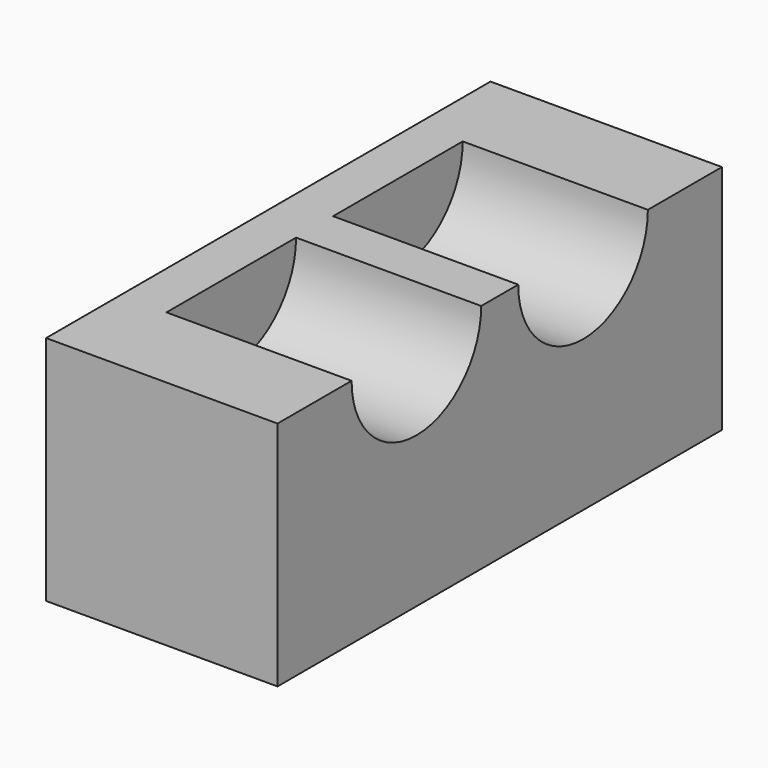
from build123d import *

# Parameters (mm, degrees)
F0_W     = 50
F0_H     = 120
F1_DEPTH = 50
F2_R     = 17.5
F3_DEPTH = 40


with BuildPart() as f1:
    # F0 (on Top) → F1 (new body)
    with BuildSketch(Plane.XY):
        Rectangle(F0_W, F0_H)
    extrude(amount=F1_DEPTH)

    # F2 (on face) → F3 (cut)
    with BuildSketch(Plane.YZ.offset(25)):
        with Locations((-22.5, 50)):
            Circle(F2_R)
        with Locations((22.5, 50)):
            Circle(F2_R)
    extrude(amount=-F3_DEPTH, mode=Mode.SUBTRACT)


solid = f1.part
